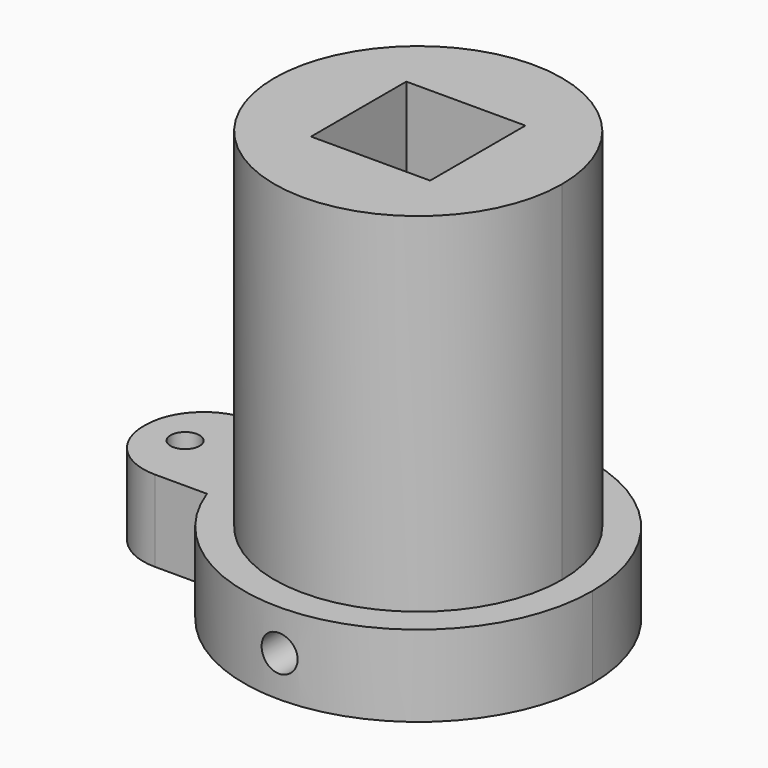
from build123d import *

# Parameters (mm, degrees)
F1_DEPTH = 7
F2_DEPTH = 37
F4_D     = 2.5
F4_DEPTH = 9.871
F5_D     = 3.1
F5_DEPTH = 20.1310001
F6_R     = 5
F7_D     = 2.5


with BuildPart() as f1:
    # F0 (on Top) → F1 (new body)
    with BuildSketch(Plane.XY):
        with BuildLine():
            ThreePointArc((-14.0954992817, -5.13), (2.6045643373, -14.7721442117), (15, 0))
            ThreePointArc((15, 0), (2.6045643373, 14.7721442117), (-14.0954992817, 5.13))
            Line((-14.0954992817, 5.13), (-11.2725917605, 5.13))
            ThreePointArc((-11.2725917605, 5.13), (2.6246119757, 12.1037034406), (12.385, 0))
            ThreePointArc((12.385, 0), (2.6246119757, -12.1037034406), (-11.2725917605, -5.13))
            Line((-11.2725917605, -5.13), (-14.0954992817, -5.13))
        make_face()
        with BuildLine():
            Line((-11.2725917605, 5.13), (-14.0954992817, 5.13))
            ThreePointArc((-14.0954992817, 5.13), (-15, 0), (-14.0954992817, -5.13))
            Line((-14.0954992817, -5.13), (-11.2725917605, -5.13))
            ThreePointArc((-11.2725917605, -5.13), (-12.385, 0), (-11.2725917605, 5.13))
        make_face()
        with BuildLine():
            ThreePointArc((12.385, 0), (2.6246119757, 12.1037034406), (-11.2725917605, 5.13))
            Line((-11.2725917605, 5.13), (-5.13, 5.13))
            Line((-5.13, 5.13), (5.13, 5.13))
            Line((5.13, 5.13), (5.13, -5.13))
            Line((5.13, -5.13), (-5.13, -5.13))
            Line((-5.13, -5.13), (-11.2725917605, -5.13))
            ThreePointArc((-11.2725917605, -5.13), (2.6246119757, -12.1037034406), (12.385, 0))
        make_face()
        with BuildLine():
            Line((-5.13, 5.13), (-11.2725917605, 5.13))
            ThreePointArc((-11.2725917605, 5.13), (-12.385, 0), (-11.2725917605, -5.13))
            Line((-11.2725917605, -5.13), (-5.13, -5.13))
            Line((-5.13, -5.13), (-5.13, 5.13))
        make_face()
        with BuildLine():
            ThreePointArc((-14.0954992817, -5.13), (-15, 0), (-14.0954992817, 5.13))
            Line((-14.0954992817, 5.13), (-23.5814342785, 5.13))
            Line((-23.5814342785, 5.13), (-23.5814342785, 0))
            Line((-23.5814342785, 0), (-23.5814342785, -5.13))
            Line((-23.5814342785, -5.13), (-14.0954992817, -5.13))
        make_face()
    extrude(amount=F1_DEPTH)

    # F0 (on Top) → F2 (join)
    with BuildSketch(Plane.XY):
        with BuildLine():
            Line((-5.13, 5.13), (-11.2725917605, 5.13))
            ThreePointArc((-11.2725917605, 5.13), (-12.385, 0), (-11.2725917605, -5.13))
            Line((-11.2725917605, -5.13), (-5.13, -5.13))
            Line((-5.13, -5.13), (-5.13, 5.13))
        make_face()
        with BuildLine():
            ThreePointArc((12.385, 0), (2.6246119757, 12.1037034406), (-11.2725917605, 5.13))
            Line((-11.2725917605, 5.13), (-5.13, 5.13))
            Line((-5.13, 5.13), (5.13, 5.13))
            Line((5.13, 5.13), (5.13, -5.13))
            Line((5.13, -5.13), (-5.13, -5.13))
            Line((-5.13, -5.13), (-11.2725917605, -5.13))
            ThreePointArc((-11.2725917605, -5.13), (2.6246119757, -12.1037034406), (12.385, 0))
        make_face()
    extrude(amount=F2_DEPTH)

    # F4 (through all, one way)
    with BuildSketch(Plane.XZ.offset(-5.13)):
        with Locations((0, 3.5)):
            Circle(F4_D / 2)
    extrude(amount=-F4_DEPTH, mode=Mode.SUBTRACT)

    # F5 (through all, one way)
    with BuildSketch(Plane(origin=(0, 5.13, 0), x_dir=(1, 0, 0), z_dir=(0, 1, 0))):
        with Locations((0, -3.5)):
            Circle(F5_D / 2)
    extrude(amount=-F5_DEPTH, mode=Mode.SUBTRACT)

    # F6
    f6_edges = [f1.edges().sort_by_distance(p)[0] for p in [
        (-23.581434, -5.13, 3.5),
        (-23.581434, 5.13, 3.5),
    ]]
    fillet(f6_edges, radius=F6_R)

    # F7 (through all)
    with Locations(Plane(origin=(0, 0, 0), x_dir=(1, 0, 0), z_dir=(0, 0, -1))):
        with Locations((-20.0814342785, 0)):
            Hole(F7_D / 2)


solid = f1.part
